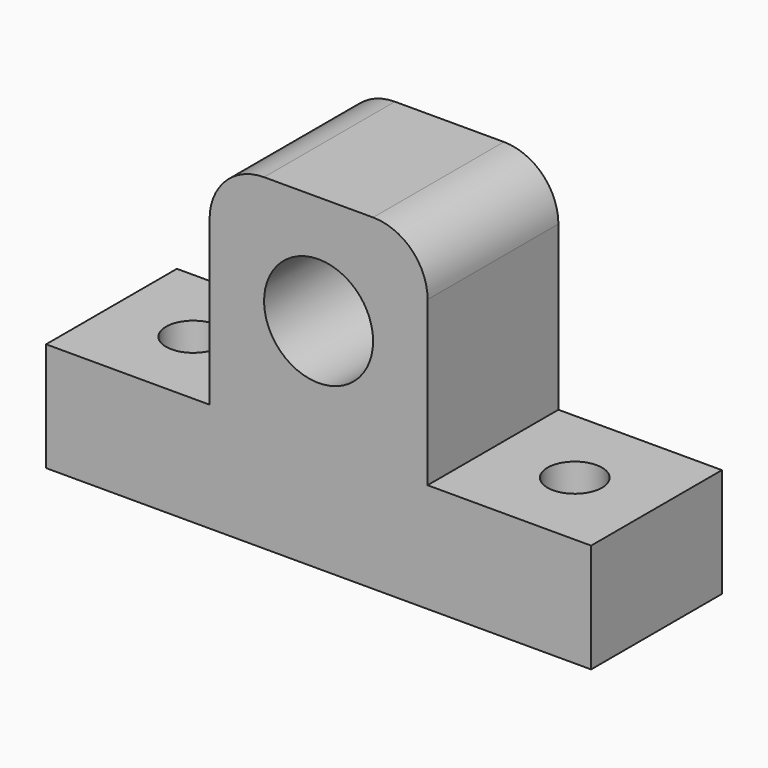
from build123d import *

# Parameters (mm, degrees)
F1_DEPTH = 19.05
F2_R     = 12.7
F4_DEPTH = 25.4


with BuildPart() as f1:
    # F0 (on Front) → F1 (new body, symmetric)
    with BuildSketch(Plane.XZ):
        Polygon((-25.4, 12.7), (-63.5, 12.7), (-63.5, -12.7), (63.5, -12.7), (63.5, 12.7), (25.4, 12.7), (0, 12.7), align=None)
        Polygon((-25.4, 63.5), (-25.4, 12.7), (0, 12.7), (25.4, 12.7), (25.4, 63.5), (0, 63.5), align=None)
        with BuildLine():
            ThreePointArc((12.7, 38.1), (-8.980256, 29.119744), (0, 50.8))
            ThreePointArc((0, 50.8), (8.980256, 47.080256), (12.7, 38.1))
        make_face(mode=Mode.SUBTRACT)
    extrude(amount=F1_DEPTH, both=True)

    # F2
    f2_edges = [f1.edges().sort_by_distance(p)[0] for p in [
        (-25.4, 0, 63.5),
        (25.4, 0, 63.5),
    ]]
    fillet(f2_edges, radius=F2_R)

    # F3 (on face) → F4 (cut, symmetric)
    with BuildSketch(Plane.XY.offset(12.7)):
        with BuildLine():
            ThreePointArc((38.1, 0), (44.45, -6.35), (50.8, 0))
            ThreePointArc((50.8, 0), (44.45, 6.35), (38.1, 0))
        make_face()
        with BuildLine():
            ThreePointArc((-50.8, 0), (-44.45, -6.35), (-38.1, 0))
            ThreePointArc((-38.1, 0), (-44.45, 6.35), (-50.8, 0))
        make_face()
    extrude(amount=F4_DEPTH, both=True, mode=Mode.SUBTRACT)


solid = f1.part
